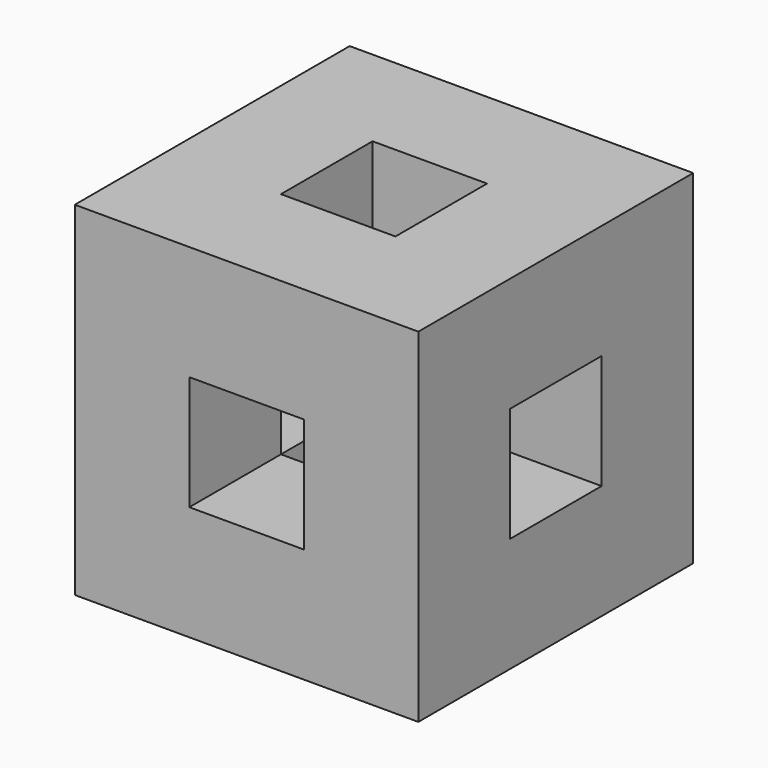
from build123d import *

# Parameters (mm, degrees)
F0_W     = 76.2
F0_H     = 76.2
F1_DEPTH = 76.2
F2_W     = 25.4
F2_H     = 25.4
F3_DEPTH = 76.2
F4_W     = 25.4
F4_H     = 25.4
F5_DEPTH = 76.2
F6_W     = 25.4
F6_H     = 25.4
F7_DEPTH = 76.2


with BuildPart() as f1:
    # F0 (on Front) → F1 (new body)
    with BuildSketch(Plane.XZ):
        with Locations((38.1, 38.1)):
            Rectangle(F0_W, F0_H)
    extrude(amount=F1_DEPTH)

    # F2 (on face) → F3 (cut)
    with BuildSketch(Plane.XZ.offset(76.2)):
        with Locations((38.1, 38.1)):
            Rectangle(F2_W, F2_H)
    extrude(amount=-F3_DEPTH, mode=Mode.SUBTRACT)

    # F4 (on face) → F5 (cut)
    with BuildSketch(Plane.XY.offset(76.2)):
        with Locations((38.1, -38.1)):
            Rectangle(F4_W, F4_H)
    extrude(amount=-F5_DEPTH, mode=Mode.SUBTRACT)

    # F6 (on face) → F7 (cut)
    with BuildSketch(Plane.YZ.offset(76.2)):
        with Locations((-38.1, 38.1)):
            Rectangle(F6_W, F6_H)
    extrude(amount=-F7_DEPTH, mode=Mode.SUBTRACT)


solid = f1.part
